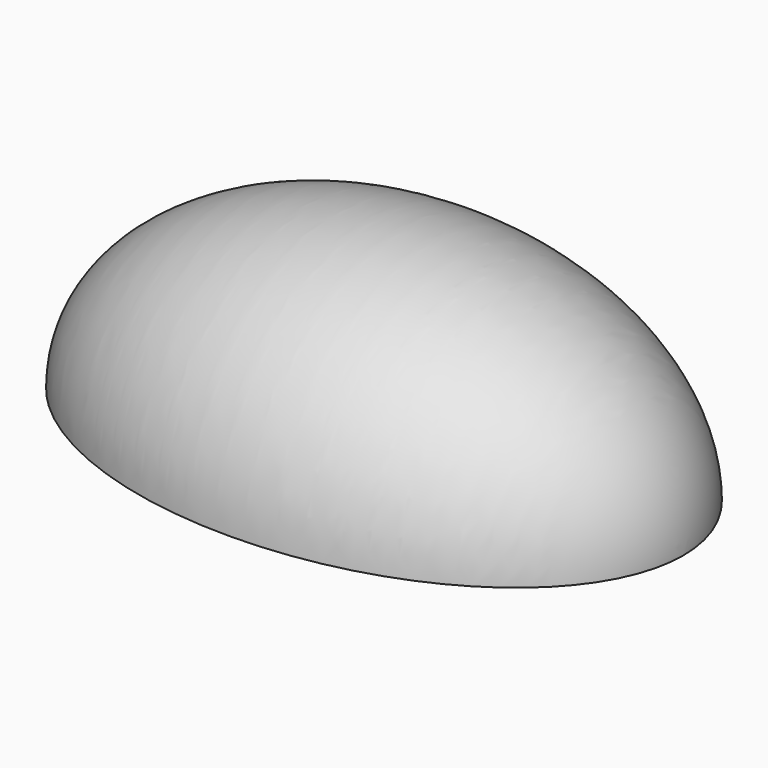
from build123d import *

# Parameters (mm, degrees)
F1_ANGLE = 180


with BuildPart() as f1:
    # F0 (on Top) → F1 (revolve)
    with BuildSketch(Plane.XY):
        with BuildLine():
            Line((7.3834722862, 0), (-7.3834722862, 0))
            add(Edge.make_bspline(
                [(-7.3834722862, 0), (-7.3834722862, -4.8336176348), (0, -4.8336176348), (7.3834722862, -4.8336176348), (7.3834722862, 0)],
                knots=[0, 0, 0, 1.5707963268, 1.5707963268, 3.1415926536, 3.1415926536, 3.1415926536], degree=2, weights=[1, 0.7071067812, 1, 0.7071067812, 1]))
        make_face()
    revolve(axis=Axis((0, 0, 0), (-1, 0, 0)), revolution_arc=F1_ANGLE)


solid = f1.part
